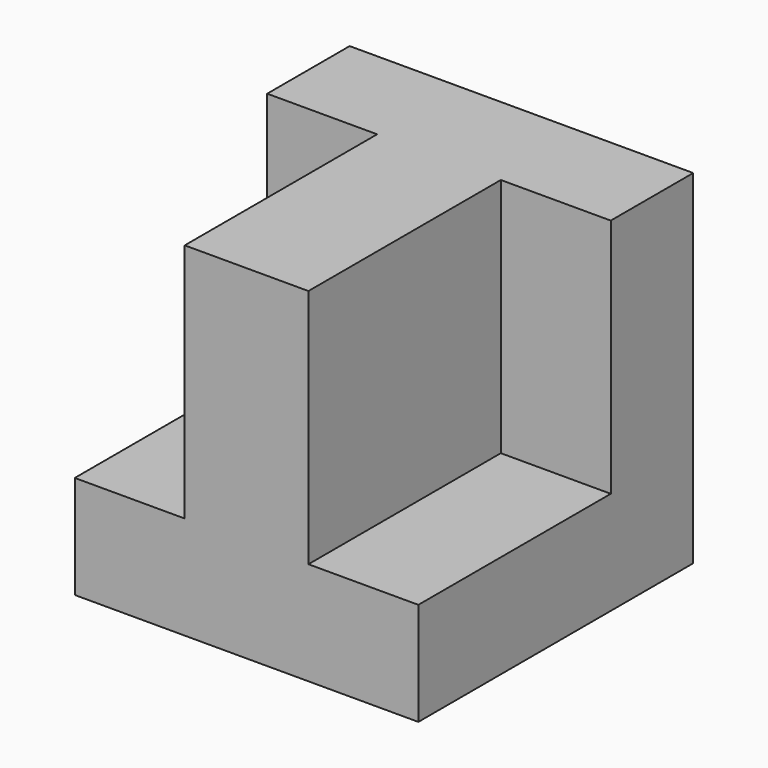
from build123d import *

# Parameters (mm, degrees)
F0_W     = 127
F0_H     = 127
F1_DEPTH = 127
F2_W     = 40.64
F2_H     = 88.9
F3_DEPTH = 88.9


with BuildPart() as f1:
    # F0 (on Top) → F1 (new body)
    with BuildSketch(Plane.XY):
        Rectangle(F0_W, F0_H)
    extrude(amount=F1_DEPTH)

    # F2 (on face) → F3 (cut)
    with BuildSketch(Plane.XY.offset(127)):
        with Locations((-43.18, -19.05)):
            Rectangle(F2_W, F2_H)
        with Locations((43.18, -19.05)):
            Rectangle(F2_W, F2_H)
    extrude(amount=-F3_DEPTH, mode=Mode.SUBTRACT)


solid = f1.part
